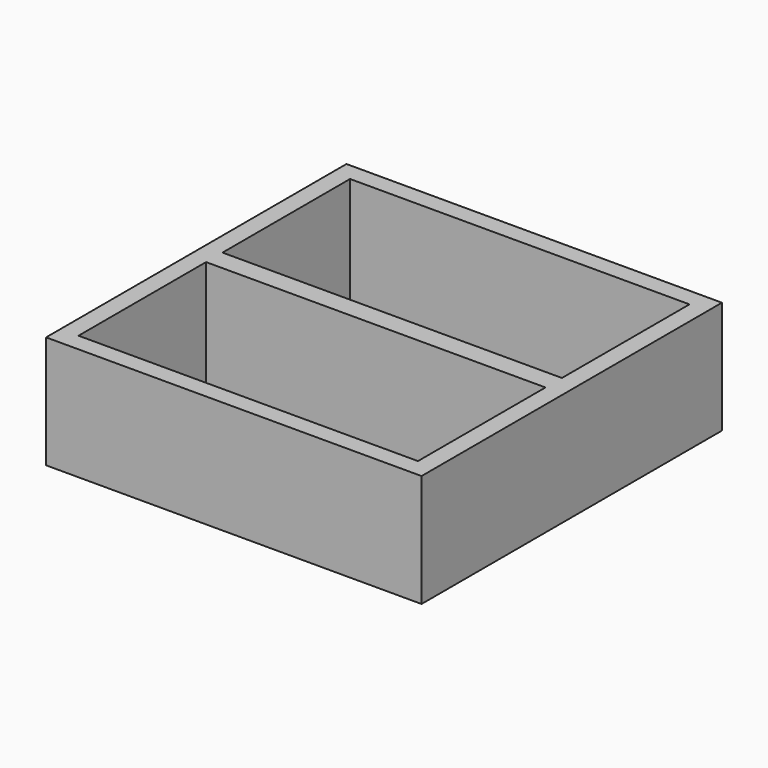
from build123d import *

# Parameters (mm, degrees)
F0_W     = 250
F0_H     = 250
F1_DEPTH = 75
F2_W     = 226
F2_H     = 226
F3_DEPTH = 101.6
F4_W     = 226
F4_H     = 13.691548
F5_DEPTH = 75


with BuildPart() as f1:
    # F0 (on Top) → F1 (new body)
    with BuildSketch(Plane.XY):
        Rectangle(F0_W, F0_H)
    extrude(amount=F1_DEPTH)

    # F2 (on face) → F3 (cut)
    with BuildSketch(Plane.XY.offset(75)):
        Rectangle(F2_W, F2_H)
    extrude(amount=-F3_DEPTH, mode=Mode.SUBTRACT)

    # F4 (on face) → F5 (join)
    with BuildSketch(Plane.XY.offset(75)):
        Rectangle(F4_W, F4_H)
    extrude(amount=-F5_DEPTH)


solid = f1.part
